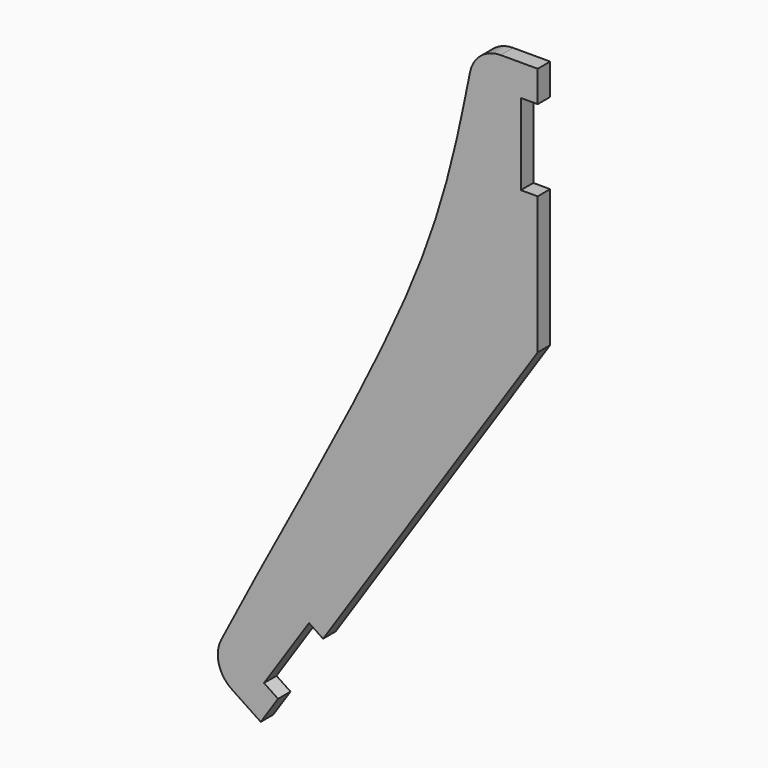
from build123d import *

# Parameters (mm, degrees)
F1_DEPTH = 3.175


with BuildPart() as f1:
    # F0 (on Front) → F1 (new body)
    with BuildSketch(Plane.XZ):
        with BuildLine():
            Line((0, 44.45), (0, 50.8))
            Line((0, 50.8), (-7.5480276247, 50.8))
            ThreePointArc((-7.5480276247, 50.8), (-11.562630681, 49.3699047044), (-13.7689613138, 45.7237676536))
            add(Edge.make_bspline(
                [(-64.410986219, -72.4440826605), (-52.5487020452, -49.0149730571), (-21.6871593471, 4.2499979949), (-16.0587888167, 34.5405153431), (-13.7689613138, 45.7237676536)],
                knots=[0.0408273323, 0.0408273323, 0.0408273323, 0.0408273323, 0.5923666484, 0.9461049167, 0.9461049167, 0.9461049167, 0.9461049167], degree=3))
            ThreePointArc((-64.410986219, -72.4440826605), (-64.8870877436, -76.926826479), (-62.2680803146, -80.5959496565))
            Line((-62.2680803146, -80.5959496565), (-56.3575398982, -84.5363099303))
            Line((-56.3575398982, -84.5363099303), (-52.8351936545, -79.2527905596))
            Line((-52.8351936545, -79.2527905596), (-55.6882941147, -77.3507235881))
            Line((-55.6882941147, -77.3507235881), (-46.5301938812, -63.6135732244))
            Line((-46.5301938812, -63.6135732244), (-43.6770934211, -65.515640196))
            Line((-43.6770934211, -65.515640196), (0, 0))
            Line((0, 0), (0, 27.94))
            Line((0, 27.94), (-3.4312817734, 27.94))
            Line((-3.4312817734, 27.94), (-3.4312817734, 44.45))
            Line((-3.4312817734, 44.45), (0, 44.45))
        make_face()
    extrude(amount=F1_DEPTH)


solid = f1.part
